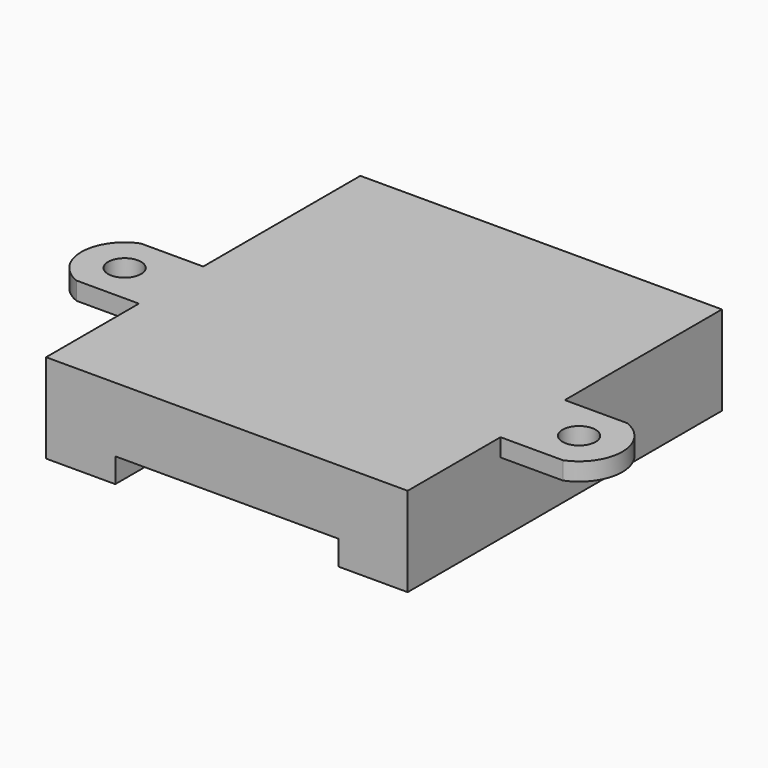
from build123d import *

# Parameters (mm, degrees)
EXTRUDE001_DEPTH                     = 44
EXTRUDE001_ONTO_SKETCH001_ROLL_ANGLE = 90
SKETCH_R                             = 1.85
EXTRUDE_DEPTH                        = 2


with BuildPart() as extrude001:
    # Sketch001 as drawn → Extrude001 (new)
    with BuildSketch(Plane.XY):
        Polygon((-20.25, 0), (20.25, 0), (20.25, -8), (12.5, -8), (12.5, -5.25), (-12.5, -5.25), (-12.5, -8), (-20.25, -8), align=None)
    extrude(amount=-EXTRUDE001_DEPTH)


with BuildPart() as extrude001_1:
    # Extrude001 onto Sketch001 roll: moved
    add(extrude001.part.rotate(Axis((0, 0, 0), (1, 0, 0)), EXTRUDE001_ONTO_SKETCH001_ROLL_ANGLE))


with BuildPart() as extrude001_2:
    # Extrude001 onto Sketch001 placement: moved
    add(extrude001_1.part)


with BuildPart() as fusion:
    # Sketch → Extrude (new body)
    with BuildSketch(Plane.XY):
        with BuildLine():
            Line((-20.25, 44), (-20.25, 22))
            Line((-20.25, 22), (-27.25, 22))
            ThreePointArc((-27.25, 22), (-30.296648, 17.5), (-27.25, 13))
            Line((-27.25, 13), (-20.25, 13))
            Line((-20.25, 13), (-20.25, 0))
            Line((-20.25, 0), (20.25, 0))
            Line((20.25, 0), (20.25, 13))
            Line((20.25, 13), (27.25, 13))
            ThreePointArc((27.25, 13), (30.296648, 17.5), (27.25, 22))
            Line((27.25, 22), (20.25, 22))
            Line((20.25, 22), (20.25, 44))
            Line((20.25, 44), (-20.25, 44))
        make_face()
        with Locations((-25.45, 17.5)):
            Circle(SKETCH_R, mode=Mode.SUBTRACT)
        with Locations((25.45, 17.5)):
            Circle(SKETCH_R, mode=Mode.SUBTRACT)
    extrude(amount=EXTRUDE_DEPTH)

    # Fusion: union Extrude001
    add(extrude001_2.part)


solid = fusion.part
